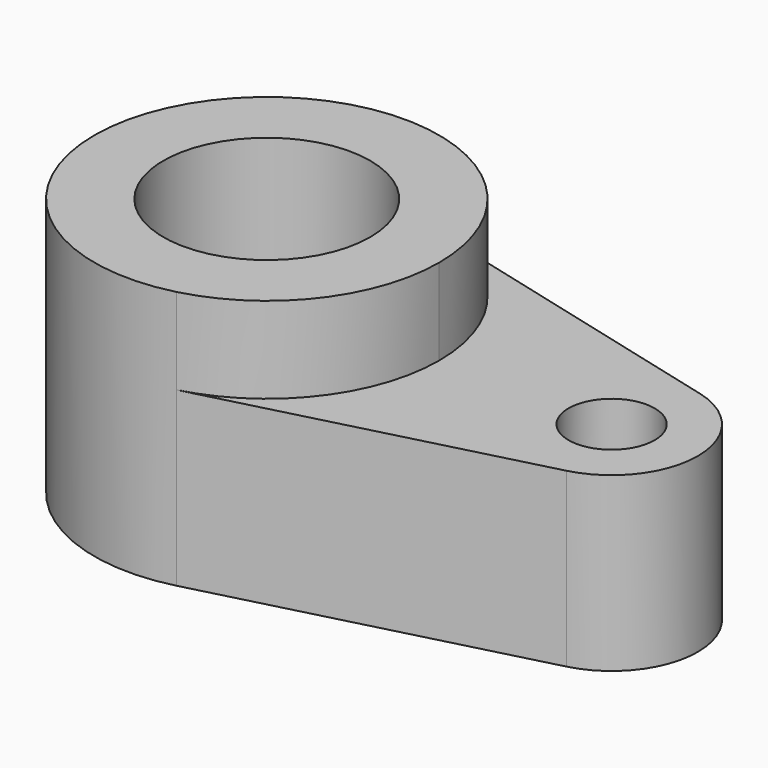
from build123d import *

# Parameters (mm, degrees)
F0_R     = 5
F1_DEPTH = 15
F0_R_2   = 12
F2_DEPTH = 30
F3_DEPTH = 20


with BuildPart() as f1:
    # F0 (on Top) → F1 (new body)
    with BuildSketch(Plane.XY):
        with BuildLine():
            ThreePointArc((5, 19.364917), (15.811388, 12.247449), (20, 0))
            ThreePointArc((20, 0), (15.811388, -12.247449), (5, -19.364917))
            Line((5, -19.364917), (42.5, -9.682458))
            ThreePointArc((42.5, -9.682458), (50, 0), (42.5, 9.682458))
            Line((42.5, 9.682458), (5, 19.364917))
        make_face()
        with Locations((40, 0)):
            Circle(F0_R, mode=Mode.SUBTRACT)
    extrude(amount=F1_DEPTH)

    # F0 (on Top) → F2 (join)
    with BuildSketch(Plane.XY):
        with BuildLine():
            ThreePointArc((5, -19.364917), (15.811388, -12.247449), (20, 0))
            ThreePointArc((20, 0), (15.811388, 12.247449), (5, 19.364917))
            ThreePointArc((5, 19.364917), (-20, 0), (5, -19.364917))
        make_face()
        Circle(F0_R_2, mode=Mode.SUBTRACT)
    extrude(amount=F2_DEPTH)

    # F0 (on Top) → F3 (join)
    with BuildSketch(Plane.XY):
        with BuildLine():
            ThreePointArc((5, 19.364917), (15.811388, 12.247449), (20, 0))
            ThreePointArc((20, 0), (15.811388, -12.247449), (5, -19.364917))
            Line((5, -19.364917), (42.5, -9.682458))
            ThreePointArc((42.5, -9.682458), (50, 0), (42.5, 9.682458))
            Line((42.5, 9.682458), (5, 19.364917))
        make_face()
        with Locations((40, 0)):
            Circle(F0_R, mode=Mode.SUBTRACT)
    extrude(amount=F3_DEPTH)


solid = f1.part
